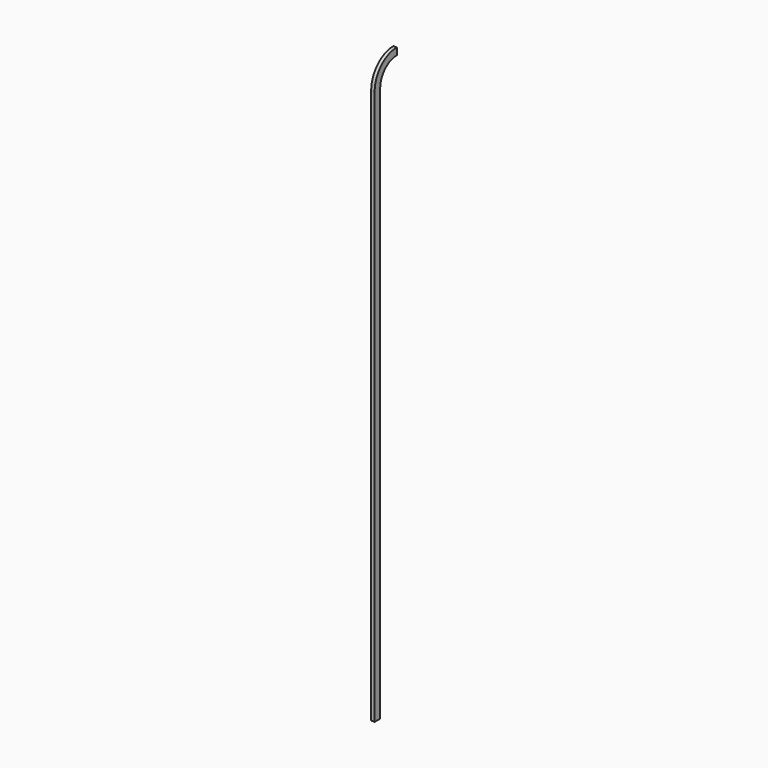
from build123d import *

# Parameters (mm, degrees)
F1_DEPTH = 6096
F3_DEPTH = 38.1


with BuildPart() as f1:
    # F0 (on Top) → F1 (new body)
    with BuildSketch(Plane.XY):
        Polygon((38.1, 0), (0, 0), (0, -3.81), (34.29, -3.81), (34.29, -72.39), (0, -72.39), (0, -76.2), (38.1, -76.2), align=None)
    extrude(amount=F1_DEPTH)

    # F2 (on face) → F3 (join)
    with BuildSketch(Plane.YZ.offset(38.1)):
        with BuildLine():
            ThreePointArc((228.6, 6400.8), (13.073853, 6311.526147), (-76.2, 6096))
            Line((-76.2, 6096), (0, 6096))
            ThreePointArc((0, 6096), (66.95539, 6257.64461), (228.6, 6324.6))
            Line((228.6, 6324.6), (228.6, 6400.8))
        make_face()
    extrude(amount=-F3_DEPTH)


solid = f1.part
